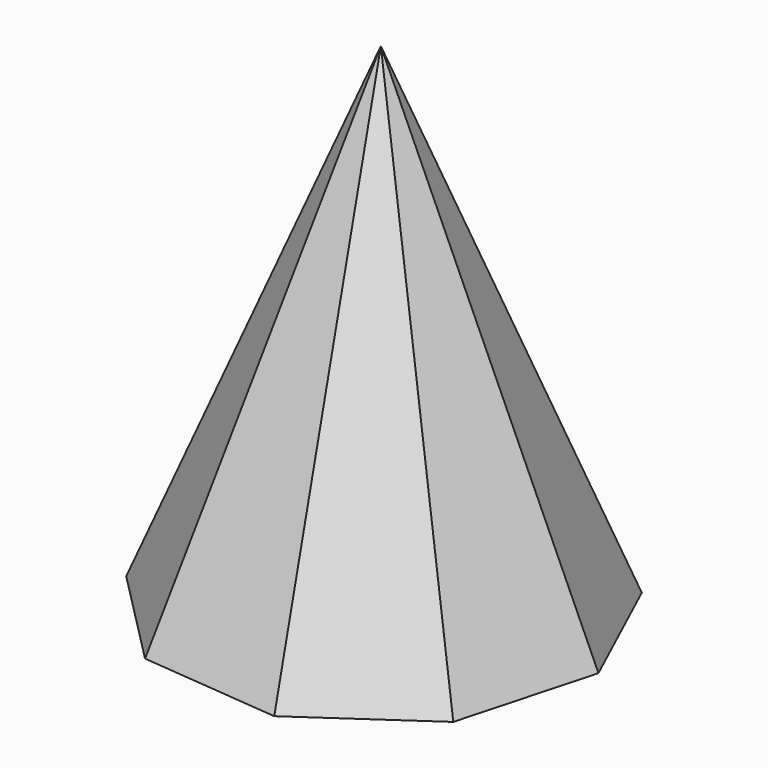
from build123d import *


with BuildPart() as f3:
    # F0 (on Top) → F3 section 0
    with BuildSketch(Plane.XY, mode=Mode.PRIVATE) as f3_s0:
        Polygon((-60.14801, 86.901146), (-101.935029, 27.907744), (-96.025515, -44.144001), (-45.184595, -95.540278), (26.798699, -102.232197), (86.242584, -61.088534), (105.332605, 8.639132), (75.13633, 74.324453), (9.782931, 105.232536), align=None)
    loft([Vertex(0, 0, 254), f3_s0.sketch])


solid = f3.part
